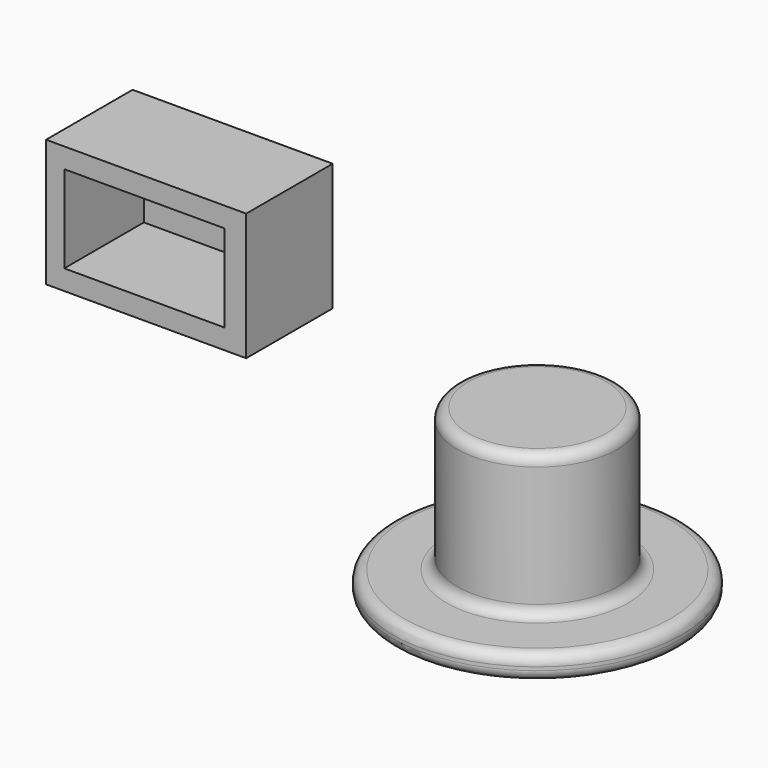
from build123d import *

# Parameters (mm, degrees)
F2_R     = 2.5
F3_W     = 46.268799
F3_H     = 29.443782
F4_DEPTH = 25
F5_W     = 37.015043
F5_H     = 20.190026
F6_DEPTH = 23


with BuildPart() as f1:
    # F0 (on Front) → F1 (revolve)
    with BuildSketch(Plane.XZ):
        Polygon((18.508477, 38.736455), (0, 38.736455), (0, 35.864286), (15.182808, 35.864286), (15.182808, 0), (33.322807, 0), (33.322807, 5.782126), (18.508477, 5.782126), align=None)
    revolve(axis=Axis((0, 0, 37.300371), (0, 0, -1)))

    # F2
    f2_edges = [f1.edges().sort_by_distance(p)[0] for p in [
        (-15.182808, 0, 35.864286),
        (-15.182808, 0, 0),
        (-33.322807, 0, 5.782126),
        (-33.322807, 0, 0),
        (-18.508477, 0, 5.782126),
        (-18.508477, 0, 38.736455),
    ]]
    fillet(f2_edges, radius=F2_R)


with BuildPart() as f4:
    # F3 (on Front) → F4 (new body)
    with BuildSketch(Plane.XZ):
        with Locations((-70.454757, 58.256628)):
            Rectangle(F3_W, F3_H)
    extrude(amount=F4_DEPTH)

    # F5 (on face) → F6 (cut)
    with BuildSketch(Plane.XZ.offset(25)):
        with Locations((-70.875388, 58.256628)):
            Rectangle(F5_W, F5_H)
    extrude(amount=-F6_DEPTH, mode=Mode.SUBTRACT)


solid = Compound([f1.part, f4.part])
